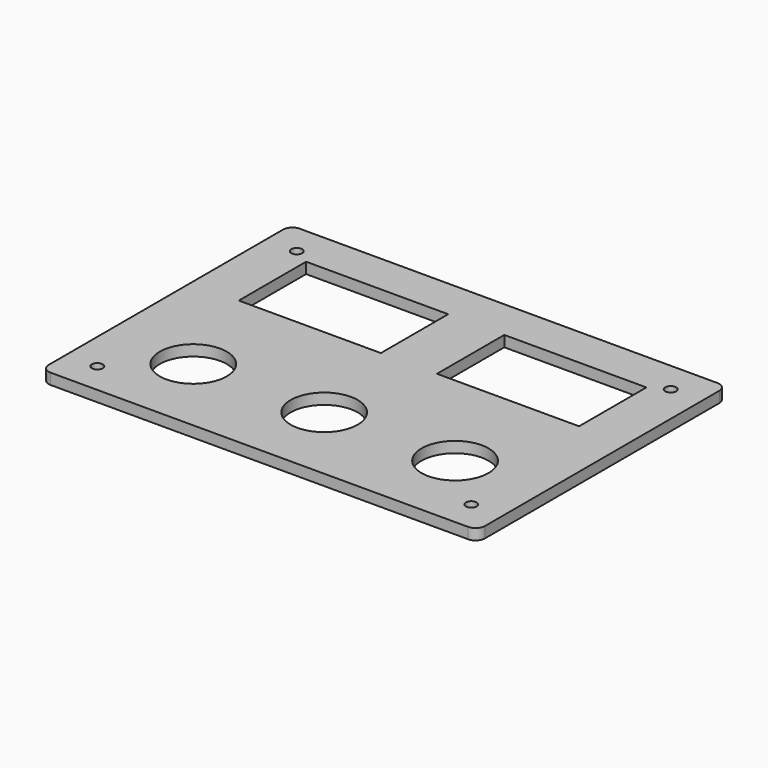
from build123d import *

# Parameters (mm, degrees)
SKETCH_R   = 10.75
SKETCH_R_2 = 1.75
SKETCH_W   = 45.6
SKETCH_H   = 27
PAD_DEPTH  = 3.5


with BuildPart() as part:
    # Sketch → Pad (new body)
    with BuildSketch(Plane.XY):
        with BuildLine():
            Line((-67, 50), (67, 50))
            ThreePointArc((70, 47), (69.12132, 49.12132), (67, 50))
            Line((70, 47), (70, -47))
            ThreePointArc((67, -50), (69.12132, -49.12132), (70, -47))
            Line((67, -50), (-67, -50))
            ThreePointArc((-70, -47), (-69.12132, -49.12132), (-67, -50))
            Line((-70, -47), (-70, 47))
            ThreePointArc((-67, 50), (-69.12132, 49.12132), (-70, 47))
        make_face()
        with Locations((-42, -24)):
            Circle(SKETCH_R, mode=Mode.SUBTRACT)
        with Locations((42, -24)):
            Circle(SKETCH_R, mode=Mode.SUBTRACT)
        with Locations((-60, 40)):
            Circle(SKETCH_R_2, mode=Mode.SUBTRACT)
        with Locations((60, 40)):
            Circle(SKETCH_R_2, mode=Mode.SUBTRACT)
        with Locations((-60, -40)):
            Circle(SKETCH_R_2, mode=Mode.SUBTRACT)
        with Locations((60, -40)):
            Circle(SKETCH_R_2, mode=Mode.SUBTRACT)
        with Locations((0, -24)):
            Circle(SKETCH_R, mode=Mode.SUBTRACT)
        with Locations((-31.8, 23.5)):
            Rectangle(SKETCH_W, SKETCH_H, mode=Mode.SUBTRACT)
        with Locations((31.8, 23.5)):
            Rectangle(SKETCH_W, SKETCH_H, mode=Mode.SUBTRACT)
    extrude(amount=PAD_DEPTH)


solid = part.part
